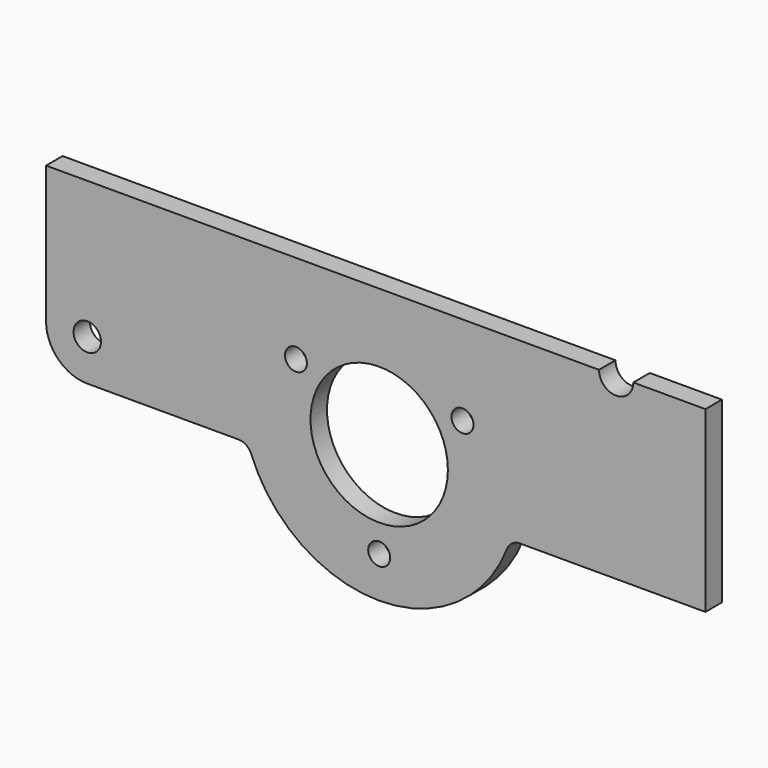
from build123d import *

# Parameters (mm, degrees)
SKETCH_AS_DRAWN_R                 = 2
SKETCH_AS_DRAWN_R_2               = 10
SKETCH_AS_DRAWN_R_3               = 1.6
EXTRUDE001_DEPTH                  = 3
EXTRUDE001_ONTO_SKETCH_ROLL_ANGLE = 90


with BuildPart() as part:
    # Sketch as drawn → Extrude001 (new)
    with BuildSketch(Plane.XY):
        with BuildLine():
            ThreePointArc((-48.5, 0), (-46.742641, -4.242641), (-42.5, -6))
            Line((-42.5, -6), (-20.493903, -6))
            ThreePointArc((-18.63082, -7.272727), (-19.36575, -6.348554), (-20.493903, -6))
            ThreePointArc((-18.63082, -7.272727), (0, -20), (18.63082, -7.272727))
            ThreePointArc((20.493902, -6), (19.365749, -6.348554), (18.63082, -7.272727))
            Line((47.5, -6), (20.493902, -6))
            Line((47.5, -6), (47.5, 20))
            Line((47.5, 20), (37, 20))
            ThreePointArc((32, 20), (34.5, 17.5), (37, 20))
            Line((-48.5, 20), (32, 20))
            Line((-48.5, 20), (-48.5, 0))
        make_face()
        with Locations((-42.5, 0)):
            Circle(SKETCH_AS_DRAWN_R, mode=Mode.SUBTRACT)
        Circle(SKETCH_AS_DRAWN_R_2, mode=Mode.SUBTRACT)
        with Locations((-12.124, 7.000616)):
            Circle(SKETCH_AS_DRAWN_R_3, mode=Mode.SUBTRACT)
        with Locations((0, -14)):
            Circle(SKETCH_AS_DRAWN_R_3, mode=Mode.SUBTRACT)
        with Locations((12.124, 7.000616)):
            Circle(SKETCH_AS_DRAWN_R_3, mode=Mode.SUBTRACT)
    extrude(amount=-EXTRUDE001_DEPTH)


with BuildPart() as part_1:
    # Extrude001 onto Sketch roll: moved
    add(part.part.rotate(Axis((0, 0, 0), (1, 0, 0)), EXTRUDE001_ONTO_SKETCH_ROLL_ANGLE))


with BuildPart() as part_2:
    # Extrude001 onto Sketch placement: moved
    add(part_1.part)


solid = part_2.part
